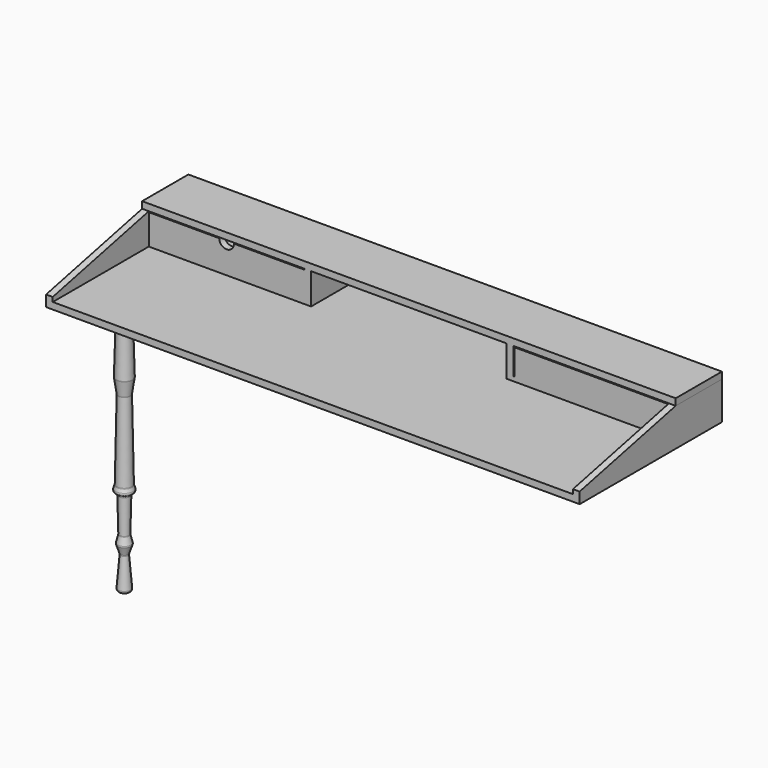
from build123d import *

# Parameters (mm, degrees)
F0_W      = 1524
F0_H      = 508
F1_DEPTH  = 19.05
F3_DEPTH  = 19.05
F6_W      = 1524.0413738251
F6_H      = 165.1
F7_DEPTH  = 19.05
F11_W     = 19.05
F11_H     = 88.9
F12_DEPTH = 165.1
F14_W     = 444.5206869125
F14_H     = 12.7
F14_W_2   = 444.4793130875
F15_DEPTH = 165.1
F16_W     = 444.5206869125
F16_H     = 19.05
F16_H_2   = 12.7
F17_DEPTH = 73.66
F19_DEPTH = 165.101


with BuildPart() as f1:
    # F0 (on Top) → F1 (new body)
    with BuildSketch(Plane.XY):
        with Locations((755.65, -254)):
            Rectangle(F0_W, F0_H)
    extrude(amount=F1_DEPTH)

    # F5: F3 across plane


with BuildPart() as f3:
    # F2 (on face) → F3 (new body)
    with BuildSketch(Plane(origin=(-6.35, 0, 0), x_dir=(0, -1, 0), z_dir=(-1, 0, 0))):
        Polygon((0, 107.95), (0, 19.05), (508, 19.05), (508, 31.75), (165.1, 107.95), align=None)
    extrude(amount=-F3_DEPTH)


with BuildPart() as f1_1:
    add(f1.part)
    add(f3.part.mirror(Plane.YZ.offset(755.65)))


    add(f3.part)  # F7 merges F3
    # F6 (on face) → F7 (join)
    with BuildSketch(Plane.XY.offset(107.95)):
        with Locations((755.6706869125, -82.55)):
            Rectangle(F6_W, F6_H)
    extrude(amount=F7_DEPTH)

    # F9 (on offset) → F10 (revolve)
    with BuildSketch(Plane.XZ.offset(355.6)):
        with BuildLine():
            Line((95.25, -742.95), (95.25, 0))
            Line((95.25, 0), (76.8735221488, 0))
            Line((76.8735221488, 0), (75.4754279121, -74.3145160434))
            ThreePointArc((75.4754279121, -74.3145160434), (75.4746843955, -74.3497134523), (75.4737782713, -74.3849070503))
            Line((75.4737782713, -74.3849070503), (71.845570714, -203.6932161663))
            ThreePointArc((71.845570714, -203.6932161663), (71.8558471051, -204.3565184492), (71.9237755832, -205.016413323))
            Line((71.9237755832, -205.016413323), (78.0130309889, -246.3924399014))
            ThreePointArc((78.0130309889, -246.3924399014), (78.0788011777, -247.0171957344), (78.092885499, -247.6452460513))
            Line((78.092885499, -247.6452460513), (73.8461462053, -473.377079492))
            ThreePointArc((73.8461462053, -473.377079492), (73.7371694799, -474.525715486), (73.4560186818, -475.6447305896))
            Line((73.4560186818, -475.6447305896), (70.5143479582, -484.4643465198))
            ThreePointArc((70.5143479582, -484.4643465198), (70.9267117434, -490.2818454788), (75.3318899356, -494.1038532134))
            Line((75.3318899356, -494.1038532134), (74.3371582298, -493.7720731041))
            ThreePointArc((74.3371582298, -493.7720731041), (78.0572829281, -496.4757851492), (79.5442121851, -500.8276155662))
            Line((79.5442121851, -500.8276155662), (81.7643778471, -598.6026153277))
            ThreePointArc((81.7643778471, -598.6026153277), (81.7201950416, -599.6129400468), (81.542611361, -600.6085163597))
            Line((81.542611361, -600.6085163597), (76.5089276499, -620.9206412985))
            ThreePointArc((76.5089276499, -620.9206412985), (76.2923751458, -623.0842206318), (76.6957067626, -625.2208755234))
            Line((76.6957067626, -625.2208755234), (84.3083676958, -647.4650587095))
            ThreePointArc((84.3083676958, -647.4650587095), (84.6608336472, -648.9936451771), (84.6928187225, -650.5620156024))
            Line((84.6928187225, -650.5620156024), (77.7165972148, -734.7003581734))
            ThreePointArc((77.7165972148, -734.7003581734), (79.7041911824, -740.4907426443), (85.3105389561, -742.95))
            Line((85.3105389561, -742.95), (95.25, -742.95))
        make_face()
    revolve(axis=Axis((95.25, -355.6, -371.475), (0, 0, -1)))

    # F11 (on face) → F12 (join, through all)
    with BuildSketch(Plane(origin=(0, 0, 0), x_dir=(-1, 0, 0), z_dir=(0, 1, 0))):
        with Locations((-466.7456869125, 63.5)):
            Rectangle(F11_W, F11_H)
        with Locations((-1044.5956869125, 63.5)):
            Rectangle(F11_W, F11_H)
    extrude(amount=-F12_DEPTH)

    # F14 (on face) → F15 (join)
    with BuildSketch(Plane(origin=(0, 0, 0), x_dir=(-1, 0, 0), z_dir=(0, 1, 0))):
        with Locations((-234.9603434563, 25.4)):
            Rectangle(F14_W, F14_H)
        with Locations((-1276.3603434563, 25.4)):
            Rectangle(F14_W_2, F14_H)
    extrude(amount=-F15_DEPTH)

    # F16 (on face) → F17 (join)
    with BuildSketch(Plane.XY.offset(31.75)):
        with Locations((234.9603434563, -155.575)):
            Rectangle(F16_W, F16_H)
        with Locations((1279.3968791008, -158.75)):
            Rectangle(F16_W, F16_H_2)
    extrude(amount=F17_DEPTH)

    # F18 (on face) → F19 (cut, through all)
    with BuildSketch(Plane.XZ.offset(165.1)):
        with BuildLine():
            Line((256.0761627351, 105.41), (213.8445241774, 105.41))
            ThreePointArc((213.8445241774, 105.41), (234.9603434563, 84.2941807211), (256.0761627351, 105.41))
        make_face()
    extrude(amount=-F19_DEPTH, mode=Mode.SUBTRACT)


solid = f1_1.part
